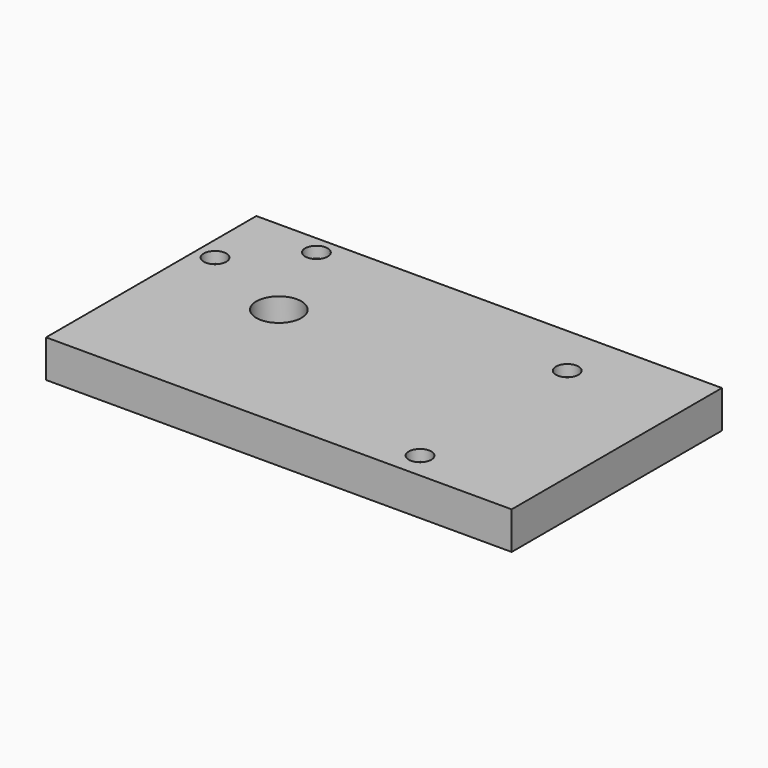
from build123d import *

# Parameters (mm, degrees)
F0_W      = 62
F0_H      = 35
F1_DEPTH  = 5
F2_R      = 1.5
F3_DEPTH  = 5
F4_R      = 3
F5_DEPTH  = 3.5
F6_R      = 3
F7_DEPTH  = 3.5
F8_R      = 1.5
F9_DEPTH  = 5
F10_R     = 1.5
F11_DEPTH = 5
F12_R     = 3
F13_DEPTH = 3.5


with BuildPart() as f1:
    # F0 (on Top) → F1 (new body)
    with BuildSketch(Plane.XY):
        Rectangle(F0_W, F0_H)
    extrude(amount=F1_DEPTH)

    # F2 (on face) → F3 (cut)
    with BuildSketch(Plane.XY.offset(5)):
        with Locations((-28.5, 7.5)):
            Circle(F2_R)
        with Locations((-21, 15)):
            Circle(F2_R)
    extrude(amount=-F3_DEPTH, mode=Mode.SUBTRACT)

    # F4 (on face) → F5 (cut)
    with BuildSketch(Plane(origin=(0, 0, 0), x_dir=(1, 0, 0), z_dir=(0, 0, -1))):
        with Locations((-28.5, -7.5)):
            Circle(F4_R)
        with Locations((-21, -15)):
            Circle(F4_R)
    extrude(amount=-F5_DEPTH, mode=Mode.SUBTRACT)

    # F6 (on face) → F7 (cut)
    with BuildSketch(Plane.XY.offset(5)):
        with Locations((-16, 2.5)):
            Circle(F6_R)
    extrude(amount=-F7_DEPTH, mode=Mode.SUBTRACT)

    # F8 (on face) → F9 (cut)
    with BuildSketch(Plane.XY.offset(1.5)):
        with Locations((-16, 2.5)):
            Circle(F8_R)
    extrude(amount=-F9_DEPTH, mode=Mode.SUBTRACT)

    # F10 (on face) → F11 (cut)
    with BuildSketch(Plane.XY.offset(5)):
        with Locations((16, 10.5)):
            Circle(F10_R)
        with Locations((16, -14)):
            Circle(F10_R)
    extrude(amount=-F11_DEPTH, mode=Mode.SUBTRACT)

    # F12 (on face) → F13 (cut)
    with BuildSketch(Plane(origin=(0, 0, 0), x_dir=(1, 0, 0), z_dir=(0, 0, -1))):
        with Locations((16, 14)):
            Circle(F12_R)
        with Locations((16, -10.5)):
            Circle(F12_R)
    extrude(amount=-F13_DEPTH, mode=Mode.SUBTRACT)


solid = f1.part
